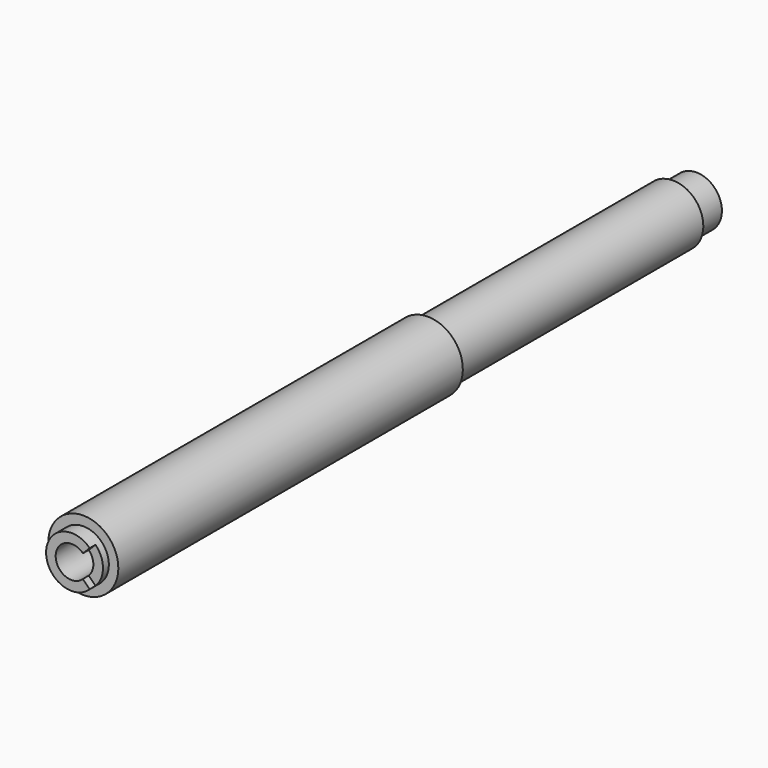
from build123d import *

# Parameters (mm, degrees)
F2_R     = 1.5875
F3_DEPTH = 25.4
F5_DEPTH = 3.175


with BuildPart() as f1:
    # F0 (on Right) → F1 (revolve)
    with BuildSketch(Plane.YZ):
        Polygon((0, 11.1125), (0, 6.94182), (32.9438, 6.7437), (32.9438, 6.3881), (36.8554, 6.1976), (339.725, 6.1976), (339.725, 11.1125), (327.025, 11.1125), (327.025, 13.17625), (193.675, 13.17625), (193.675, 15.24), (6.35, 15.24), (6.35, 11.1125), align=None)
    revolve(axis=Axis((0, 169.8625, 0), (0, -1, 0)))

    # F2 (on Top) → F3 (cut)
    with BuildSketch(Plane.XY):
        with Locations((0, 355.6)):
            Circle(F2_R)
    extrude(amount=F3_DEPTH, mode=Mode.SUBTRACT)

    # F4 (on face) → F5 (cut)
    with BuildSketch(Plane.XZ):
        Polygon((9.192321, 9.192321), (0, 0), (14.158506, -14.158506), (23.104484, -14.158506), (23.104484, 9.648457), align=None)
    extrude(amount=-F5_DEPTH, mode=Mode.SUBTRACT)


solid = f1.part
